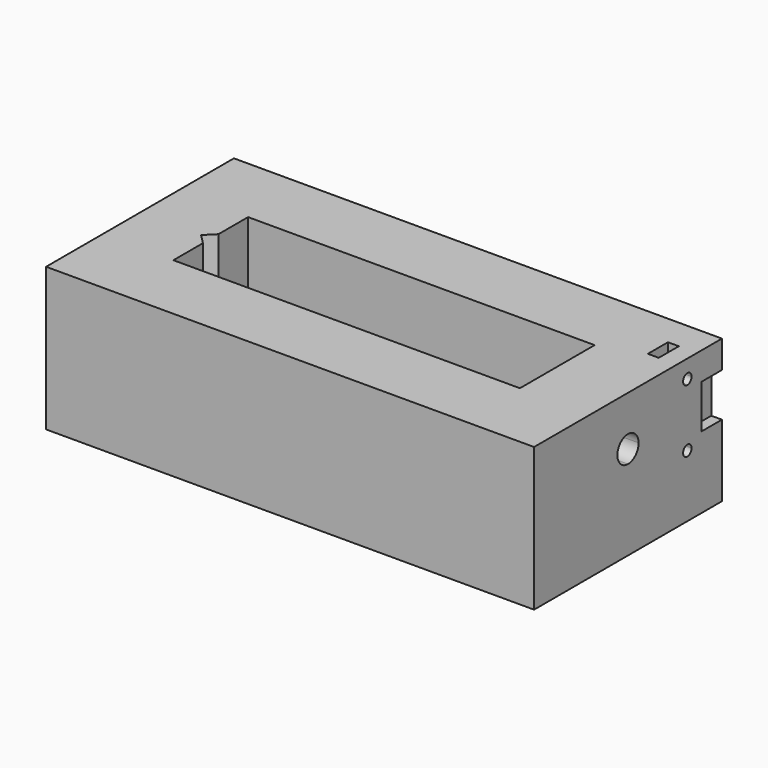
from build123d import *

# Parameters (mm, degrees)
F0_W      = 138
F0_H      = 66.4
F1_DEPTH  = 12.5
F2_W      = 20
F2_H      = 26.4
F3_DEPTH  = 28
F5_DEPTH  = 25
F7_DEPTH  = 3
F9_DEPTH  = 20
F10_DEPTH = 15
F8_W      = 3.067044
F8_H      = 3.546548
F11_DEPTH = 30


with BuildPart() as f1:
    # F0 (on Top) → F1 (new body)
    with BuildSketch(Plane.XY):
        with Locations((-7.109798, -8.569356)):
            Rectangle(F0_W, F0_H)
    extrude(amount=F1_DEPTH)

    # F2 (on face) → F3 (join)
    with BuildSketch(Plane.XY.offset(12.5)):
        Polygon((-76.109798, -21.769356), (-76.109798, -41.769356), (61.890202, -41.769356), (61.890202, -21.769356), (41.890202, -21.769356), (-56.109798, -21.769356), (-58.859691, -21.769356), align=None)
        Polygon((-76.109798, 4.630644), (-76.109798, -21.769356), (-58.859691, -21.769356), (-58.859691, -8.569356), (-58.859691, 4.630644), align=None)
        with Locations((51.890202, -8.569356)):
            Rectangle(F2_W, F2_H)
        Polygon((-76.109798, 24.630644), (-76.109798, 4.630644), (-58.859691, 4.630644), (-56.109798, 4.630644), (41.890202, 4.630644), (61.890202, 4.630644), (61.890202, 24.630644), align=None)
        Polygon((-58.859691, 4.630644), (-58.859691, -8.569356), (-56.109798, -5.819463), (-56.109798, 4.630644), align=None)
        Polygon((-58.859691, -8.569356), (-58.859691, -21.769356), (-56.109798, -21.769356), (-56.109798, -11.319249), align=None)
    extrude(amount=F3_DEPTH)

    # F4 (on face) → F5 (cut)
    with BuildSketch(Plane.YZ.offset(61.890202)):
        with BuildLine():
            ThreePointArc((-8.569356, 22.75), (-5.917706, 23.84835), (-4.819356, 26.5))
            ThreePointArc((-4.819356, 26.5), (-5.917706, 29.15165), (-8.569356, 30.25))
            Line((-8.569356, 30.25), (-8.569356, 22.75))
        make_face()
        with BuildLine():
            Line((-8.569356, 22.75), (-8.569356, 30.25))
            ThreePointArc((-8.569356, 30.25), (-12.319356, 26.5), (-8.569356, 22.75))
        make_face()
    extrude(amount=-F5_DEPTH, mode=Mode.SUBTRACT)

    # F6 (on face) → F7 (cut)
    with BuildSketch(Plane.YZ.offset(61.890202)):
        Polygon((17.405644, 32.680817), (17.405644, 26.5), (17.405644, 20.319183), (24.630644, 20.319183), (24.630644, 32.680817), align=None)
    extrude(amount=-F7_DEPTH, mode=Mode.SUBTRACT)

    # F6 (on face) → F9 (cut)
    with BuildSketch(Plane.YZ.offset(61.890202)):
        with BuildLine():
            ThreePointArc((13.905644, 17.6), (13.466304, 18.66066), (12.405644, 19.1))
            ThreePointArc((12.405644, 19.1), (11.344984, 16.53934), (13.905644, 17.6))
        make_face()
        with BuildLine():
            Line((12.405644, 35.4), (12.405644, 36.9))
            ThreePointArc((12.405644, 36.9), (10.905644, 35.4), (12.405644, 33.9))
            Line((12.405644, 33.9), (12.405644, 35.4))
        make_face()
        with BuildLine():
            ThreePointArc((12.405644, 33.9), (13.466304, 34.33934), (13.905644, 35.4))
            ThreePointArc((13.905644, 35.4), (13.466304, 36.46066), (12.405644, 36.9))
            Line((12.405644, 36.9), (12.405644, 35.4))
            Line((12.405644, 35.4), (12.405644, 33.9))
        make_face()
    extrude(amount=-F9_DEPTH, mode=Mode.SUBTRACT)

    # F6 (on face) → F10 (cut)
    with BuildSketch(Plane.YZ.offset(61.890202)):
        with BuildLine():
            ThreePointArc((12.405644, 33.9), (13.466304, 34.33934), (13.905644, 35.4))
            ThreePointArc((13.905644, 35.4), (13.466304, 36.46066), (12.405644, 36.9))
            Line((12.405644, 36.9), (12.405644, 35.4))
            Line((12.405644, 35.4), (12.405644, 33.9))
        make_face()
        with BuildLine():
            Line((12.405644, 35.4), (12.405644, 36.9))
            ThreePointArc((12.405644, 36.9), (10.905644, 35.4), (12.405644, 33.9))
            Line((12.405644, 33.9), (12.405644, 35.4))
        make_face()
        with BuildLine():
            ThreePointArc((13.905644, 17.6), (13.466304, 18.66066), (12.405644, 19.1))
            ThreePointArc((12.405644, 19.1), (11.344984, 16.53934), (13.905644, 17.6))
        make_face()
    extrude(amount=-F10_DEPTH, mode=Mode.SUBTRACT)

    # F8 (on face) → F11 (cut)
    with BuildSketch(Plane.XY.offset(40.5)):
        with Locations((55.204206, 10.50737)):
            Rectangle(F8_W, F8_H)
        with Locations((55.204206, 14.053918)):
            Rectangle(F8_W, F8_H)
    extrude(amount=-F11_DEPTH, mode=Mode.SUBTRACT)


solid = f1.part
